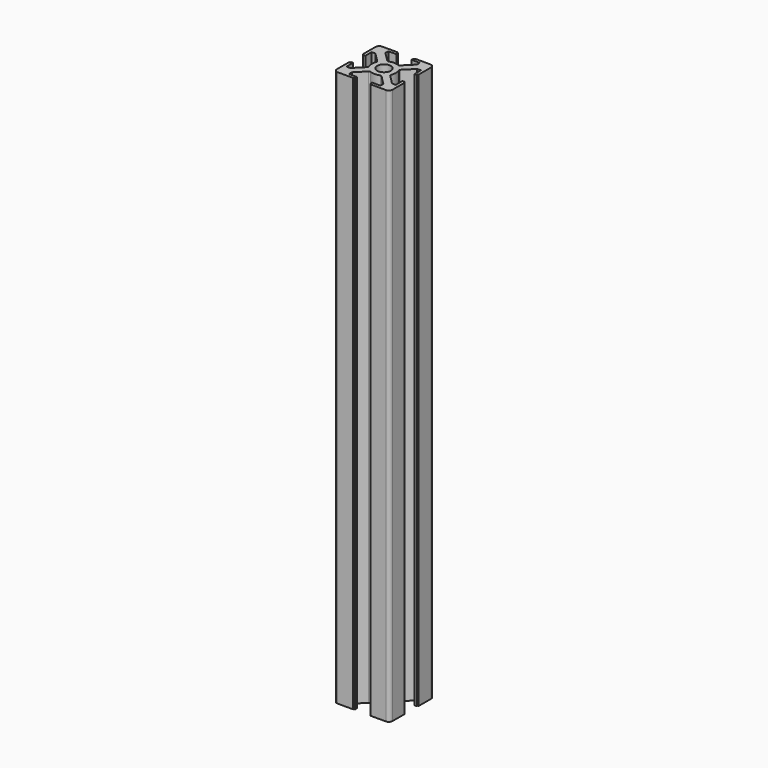
from build123d import *

# Parameters (mm, degrees)
F1_DEPTH = 300
F2_R     = 3.65
F3_DEPTH = 300


with BuildPart() as f1:
    # F0 (on Top) → F1 (new body)
    with BuildSketch(Plane.XY):
        with BuildLine():
            ThreePointArc((0, 2), (0.585786, 0.585786), (2, 0))
            Line((2, 0), (10.4, 0))
            Line((10.4, 0), (10.4, 0.5))
            Line((10.4, 0.5), (11, 0.5))
            Line((11, 0.5), (11, 1.7))
            Line((11, 1.7), (6.7, 1.7))
            Line((6.7, 1.7), (6.7, 3.7))
            Line((6.7, 3.7), (11.707107, 8.707107))
            ThreePointArc((11.707107, 8.707107), (12.03153, 8.92388), (12.414214, 9))
            ThreePointArc((12.414214, 9), (15.2, 8.447547), (17.985786, 9))
            ThreePointArc((17.985786, 9), (18.36847, 8.92388), (18.692893, 8.707107))
            Line((18.692893, 8.707107), (23.7, 3.7))
            Line((23.7, 3.7), (23.7, 1.7))
            Line((23.7, 1.7), (19.2, 1.7))
            Line((19.2, 1.7), (19.2, 0.5))
            Line((19.2, 0.5), (19.8, 0.5))
            Line((19.8, 0.5), (19.8, 0))
            Line((19.8, 0), (28, 0))
            ThreePointArc((28, 0), (29.414214, 0.585786), (30, 2))
            Line((30, 2), (30, 10.2))
            Line((30, 10.2), (29.5, 10.2))
            Line((29.5, 10.2), (29.5, 10.8))
            Line((29.5, 10.8), (28.3, 10.8))
            Line((28.3, 10.8), (28.3, 6.3))
            Line((28.3, 6.3), (26.3, 6.3))
            Line((26.3, 6.3), (21.292893, 11.307107))
            ThreePointArc((21.292893, 11.307107), (21.07612, 11.63153), (21, 12.014214))
            ThreePointArc((21, 12.014214), (21.552453, 14.8), (21, 17.585786))
            ThreePointArc((21, 17.585786), (21.07612, 17.96847), (21.292893, 18.292893))
            Line((21.292893, 18.292893), (26.3, 23.3))
            Line((26.3, 23.3), (28.3, 23.3))
            Line((28.3, 23.3), (28.3, 19))
            Line((28.3, 19), (29.5, 19))
            Line((29.5, 19), (29.5, 19.6))
            Line((29.5, 19.6), (30, 19.6))
            Line((30, 19.6), (30, 28))
            ThreePointArc((30, 28), (29.414214, 29.414214), (28, 30))
            Line((28, 30), (19.8, 30))
            Line((19.8, 30), (19.8, 29.5))
            Line((19.8, 29.5), (19.2, 29.5))
            Line((19.2, 29.5), (19.2, 28.3))
            Line((19.2, 28.3), (23.7, 28.3))
            Line((23.7, 28.3), (23.7, 26.3))
            Line((23.7, 26.3), (18.692893, 21.292893))
            ThreePointArc((18.692893, 21.292893), (18.36847, 21.07612), (17.985786, 21))
            ThreePointArc((17.985786, 21), (15.2, 21.552453), (12.414214, 21))
            ThreePointArc((12.414214, 21), (12.03153, 21.07612), (11.707107, 21.292893))
            Line((11.707107, 21.292893), (6.7, 26.3))
            Line((6.7, 26.3), (6.7, 28.3))
            Line((6.7, 28.3), (11, 28.3))
            Line((11, 28.3), (11, 29.5))
            Line((11, 29.5), (10.4, 29.5))
            Line((10.4, 29.5), (10.4, 30))
            Line((10.4, 30), (2, 30))
            ThreePointArc((2, 30), (0.585786, 29.414214), (0, 28))
            Line((0, 28), (0, 19.6))
            Line((0, 19.6), (0.5, 19.6))
            Line((0.5, 19.6), (0.5, 19))
            Line((0.5, 19), (1.7, 19))
            Line((1.7, 19), (1.7, 23.3))
            Line((1.7, 23.3), (3.7, 23.3))
            Line((3.7, 23.3), (8.707107, 18.292893))
            ThreePointArc((8.707107, 18.292893), (8.92388, 17.96847), (9, 17.585786))
            ThreePointArc((9, 17.585786), (8.447547, 14.8), (9, 12.014214))
            ThreePointArc((9, 12.014214), (8.92388, 11.63153), (8.707107, 11.307107))
            Line((8.707107, 11.307107), (3.7, 6.3))
            Line((3.7, 6.3), (1.7, 6.3))
            Line((1.7, 6.3), (1.7, 10.8))
            Line((1.7, 10.8), (0.5, 10.8))
            Line((0.5, 10.8), (0.5, 10.2))
            Line((0.5, 10.2), (0, 10.2))
            Line((0, 10.2), (0, 2))
        make_face()
    extrude(amount=F1_DEPTH)

    # F2 (on face) → F3 (cut)
    with BuildSketch(Plane.XY.offset(300)):
        with Locations((15, 15)):
            Circle(F2_R)
    extrude(amount=-F3_DEPTH, mode=Mode.SUBTRACT)


solid = f1.part
